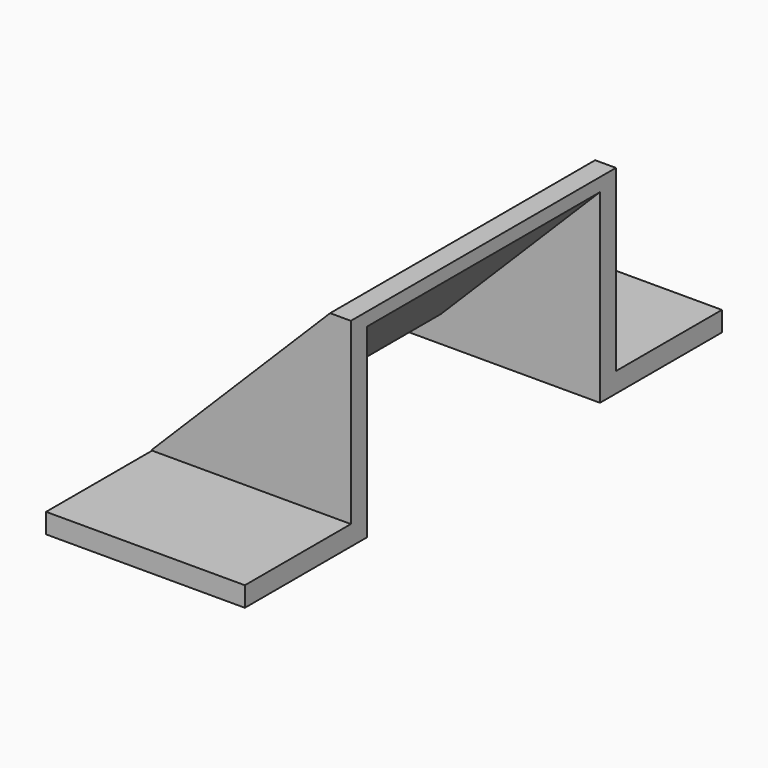
from build123d import *

# Parameters (mm, degrees)
BOX001002002_W           = 10
BOX001002002_H           = 22
BOX001002002_DEPTH       = 5
BOX001002_W              = 10
BOX001002_H              = 22
BOX001002_DEPTH          = 20
BOX001002_PITCH_ANGLE    = 44.999934
BOX001002001_W           = 10
BOX001002001_H           = 27
BOX001002001_DEPTH       = 22
BOX001002001_PITCH_ANGLE = 44.999934
BOX_W                    = 15
BOX_H                    = 25
BOX_DEPTH                = 15
BOX001001_W              = 15
BOX001001_H              = 10
BOX001001_DEPTH          = 1.5
BOX001_W                 = 15
BOX001_H                 = 10
BOX001_DEPTH             = 1.5


with BuildPart() as box005:
    # Box001002002 → Box001002002 (new body)
    with BuildSketch(Plane(origin=(-3, 1.5, -3), x_dir=(1, 0, 0), z_dir=(0, 0, 1))):
        with Locations((5, 11)):
            Rectangle(BOX001002002_W, BOX001002002_H)
    extrude(amount=BOX001002002_DEPTH)


with BuildPart() as box003:
    # Box001002 → Box001002 (new body)
    with BuildSketch(Plane.XY):
        with Locations((5, 11)):
            Rectangle(BOX001002_W, BOX001002_H)
    extrude(amount=BOX001002_DEPTH)


with BuildPart() as box003_1:
    # Box001002 pitch: moved
    add(box003.part.rotate(Axis((0, 0, 0), (0, 1, 0)), BOX001002_PITCH_ANGLE))


with BuildPart() as box003_2:
    # Box001002 placement: moved
    add(box003_1.part.moved(Location((1, 1.5, 0))))


with BuildPart() as fusion:
    # Box001002001 → Box001002001 (new body)
    with BuildSketch(Plane.XY):
        with Locations((5, 13.5)):
            Rectangle(BOX001002001_W, BOX001002001_H)
    extrude(amount=BOX001002001_DEPTH)


with BuildPart() as fusion_1:
    # Box001002001 pitch: moved
    add(fusion.part.rotate(Axis((0, 0, 0), (0, 1, 0)), BOX001002001_PITCH_ANGLE))


with BuildPart() as fusion_2:
    # Box001002001 placement: moved
    add(fusion_1.part.moved(Location((-8.71, -1, 7))))

    # Fusion: union Box005, Box003
    add(box005.part)
    add(box003_2.part)


with BuildPart() as cut:
    # Box → Box (new body)
    with BuildSketch(Plane.XY):
        with Locations((7.5, 12.5)):
            Rectangle(BOX_W, BOX_H)
    extrude(amount=BOX_DEPTH)

    # Cut: cut Fusion
    add(fusion_2.part, mode=Mode.SUBTRACT)


with BuildPart() as box002:
    # Box001001 → Box001001 (new body)
    with BuildSketch(Plane(origin=(0, -10, 0), x_dir=(1, 0, 0), z_dir=(0, 0, 1))):
        with Locations((7.5, 5)):
            Rectangle(BOX001001_W, BOX001001_H)
    extrude(amount=BOX001001_DEPTH)


with BuildPart() as mirrormount:
    # Box001 → Box001 (new body)
    with BuildSketch(Plane(origin=(0, 25, 0), x_dir=(1, 0, 0), z_dir=(0, 0, 1))):
        with Locations((7.5, 5)):
            Rectangle(BOX001_W, BOX001_H)
    extrude(amount=BOX001_DEPTH)

    # Fusion001: union Cut, Box002
    add(cut.part)
    add(box002.part)


solid = mirrormount.part
